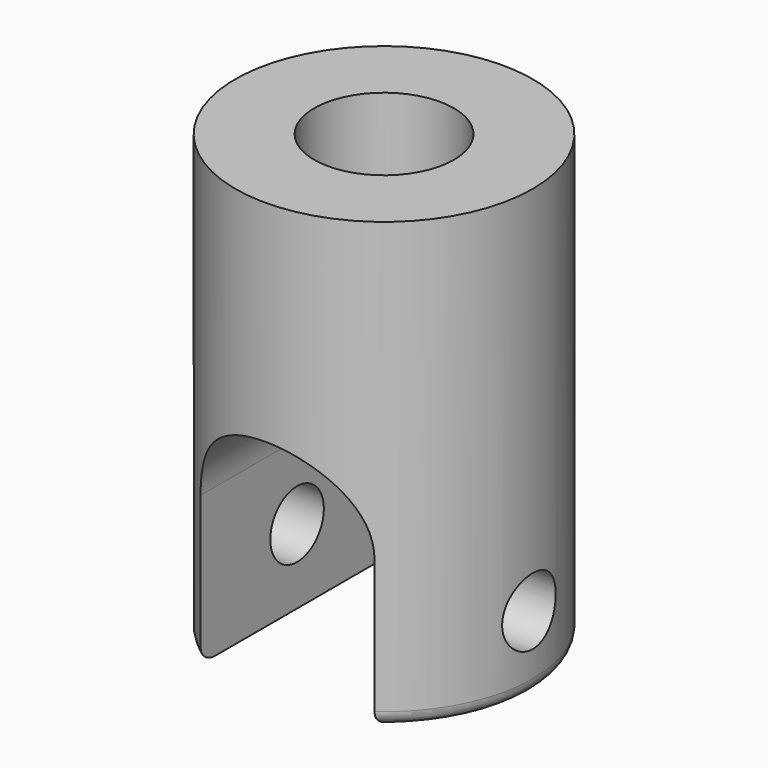
from build123d import *

# Parameters (mm, degrees)
SKETCH_R        = 10
SKETCH_R_2      = 4.7
PAD_DEPTH       = 30
SKETCH001_R     = 5.85
POCKET_DEPTH    = 10
POCKET001_DEPTH = 11
SKETCH003_R     = 2.25
POCKET002_DEPTH = 13
FILLET_R        = 1


with BuildPart() as part:
    # Sketch → Pad (new body)
    with BuildSketch(Plane.XY):
        Circle(SKETCH_R)
        Circle(SKETCH_R_2, mode=Mode.SUBTRACT)
    extrude(amount=PAD_DEPTH)

    # Sketch001 → Pocket (cut)
    with BuildSketch(Plane.XY):
        Circle(SKETCH001_R)
    extrude(amount=POCKET_DEPTH, mode=Mode.SUBTRACT)

    # Sketch002 → Pocket001 (cut, symmetric)
    with BuildSketch(Plane.XZ):
        with BuildLine():
            ThreePointArc((5.85, 10), (0, 15.85), (-5.85, 10))
            Line((-5.85, 10), (-5.85, 0))
            Line((-5.85, 0), (5.85, 0))
            Line((5.85, 0), (5.85, 10))
        make_face()
    extrude(amount=POCKET001_DEPTH, both=True, mode=Mode.SUBTRACT)

    # Sketch003 (on DatumPlane) → Pocket002 (cut, symmetric)
    with BuildSketch(Plane(origin=(0, 0, 0), x_dir=(0, -1, 0), z_dir=(-1, 0, 0))):
        with Locations((0, 5)):
            Circle(SKETCH003_R)
    extrude(amount=POCKET002_DEPTH, both=True, mode=Mode.SUBTRACT)

    # Fillet
    fillet_edges = [part.edges().sort_by_distance(p)[0] for p in [
        (-10, 0, 0),
        (8.902247, 4.555217, 0),
        (8.902247, -4.555217, 0),
    ]]
    fillet(fillet_edges, radius=FILLET_R)


solid = part.part
